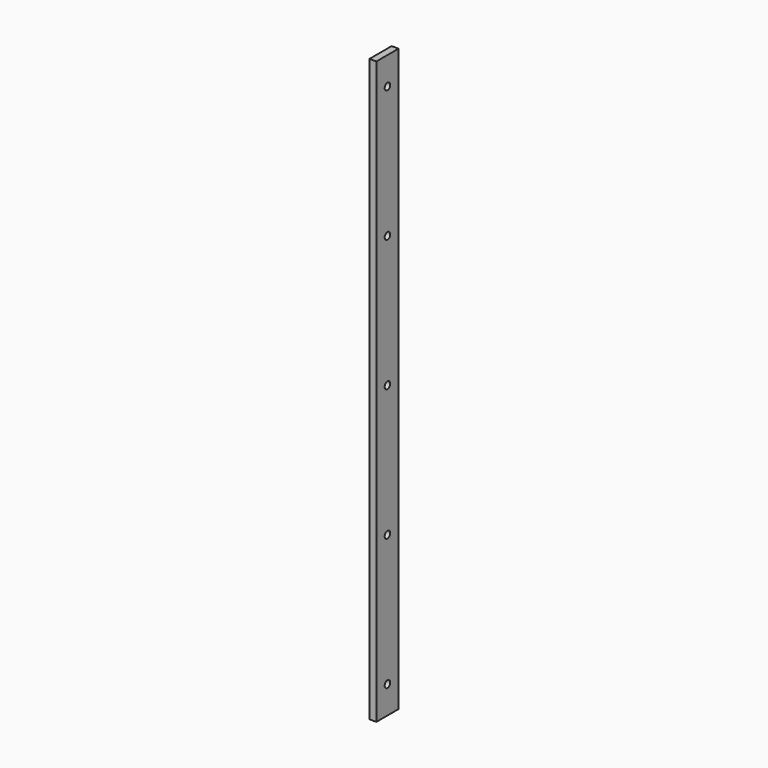
from build123d import *

# Parameters (mm, degrees)
F0_W     = 25.4
F0_H     = 533.4
F0_R     = 3.175
F1_DEPTH = 6.35


with BuildPart() as f1:
    # F0 (on Right) → F1 (new body)
    with BuildSketch(Plane.YZ):
        Rectangle(F0_W, F0_H)
        with Locations((0, -241.3)):
            Circle(F0_R, mode=Mode.SUBTRACT)
        with Locations((0, -120.65)):
            Circle(F0_R, mode=Mode.SUBTRACT)
        Circle(F0_R, mode=Mode.SUBTRACT)
        with Locations((0, 120.65)):
            Circle(F0_R, mode=Mode.SUBTRACT)
        with Locations((0, 241.3)):
            Circle(F0_R, mode=Mode.SUBTRACT)
    extrude(amount=F1_DEPTH)


solid = f1.part
